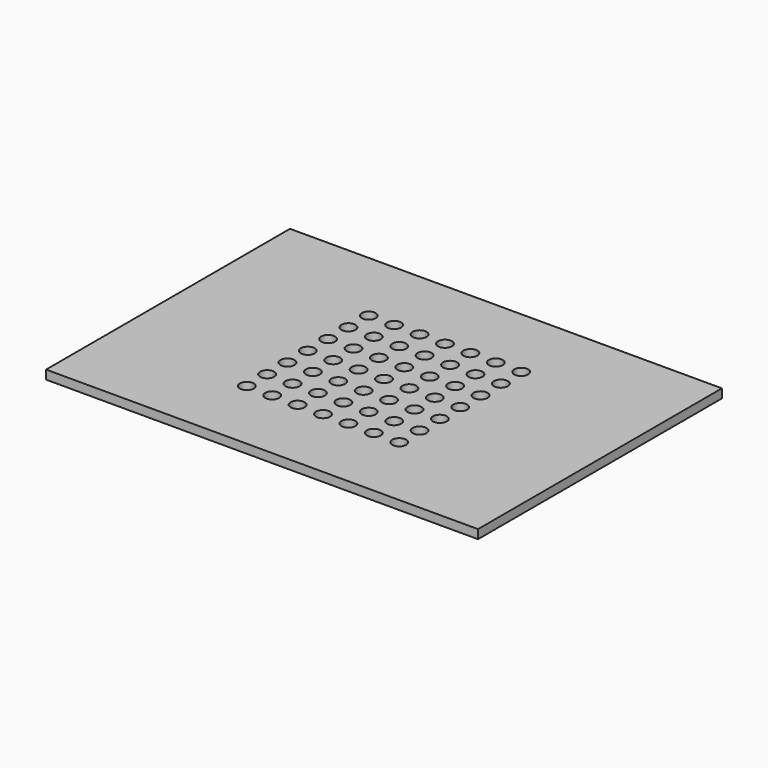
from build123d import *

# Parameters (mm, degrees)
F0_W     = 215.9
F0_H     = 152.4
F0_R     = 3.4925
F1_DEPTH = 4.445


with BuildPart() as f1:
    # F0 (on Top) → F1 (new body)
    with BuildSketch(Plane.XY):
        with Locations((107.95, 76.2)):
            Rectangle(F0_W, F0_H)
        with Locations((69.85, 38.1)):
            Circle(F0_R, mode=Mode.SUBTRACT)
        with Locations((69.85, 50.8)):
            Circle(F0_R, mode=Mode.SUBTRACT)
        with Locations((82.55, 38.1)):
            Circle(F0_R, mode=Mode.SUBTRACT)
        with Locations((95.25, 38.1)):
            Circle(F0_R, mode=Mode.SUBTRACT)
        with Locations((82.55, 50.8)):
            Circle(F0_R, mode=Mode.SUBTRACT)
        with Locations((95.25, 50.8)):
            Circle(F0_R, mode=Mode.SUBTRACT)
        with Locations((69.85, 63.5)):
            Circle(F0_R, mode=Mode.SUBTRACT)
        with Locations((82.55, 63.5)):
            Circle(F0_R, mode=Mode.SUBTRACT)
        with Locations((95.25, 63.5)):
            Circle(F0_R, mode=Mode.SUBTRACT)
        with Locations((107.95, 38.1)):
            Circle(F0_R, mode=Mode.SUBTRACT)
        with Locations((120.65, 38.1)):
            Circle(F0_R, mode=Mode.SUBTRACT)
        with Locations((133.35, 38.1)):
            Circle(F0_R, mode=Mode.SUBTRACT)
        with Locations((107.95, 50.8)):
            Circle(F0_R, mode=Mode.SUBTRACT)
        with Locations((120.65, 50.8)):
            Circle(F0_R, mode=Mode.SUBTRACT)
        with Locations((133.35, 50.8)):
            Circle(F0_R, mode=Mode.SUBTRACT)
        with Locations((146.05, 38.1)):
            Circle(F0_R, mode=Mode.SUBTRACT)
        with Locations((146.05, 50.8)):
            Circle(F0_R, mode=Mode.SUBTRACT)
        with Locations((107.95, 63.5)):
            Circle(F0_R, mode=Mode.SUBTRACT)
        with Locations((120.65, 63.5)):
            Circle(F0_R, mode=Mode.SUBTRACT)
        with Locations((133.35, 63.5)):
            Circle(F0_R, mode=Mode.SUBTRACT)
        with Locations((146.05, 63.5)):
            Circle(F0_R, mode=Mode.SUBTRACT)
        with Locations((69.85, 76.2)):
            Circle(F0_R, mode=Mode.SUBTRACT)
        with Locations((69.85, 88.9)):
            Circle(F0_R, mode=Mode.SUBTRACT)
        with Locations((82.55, 76.2)):
            Circle(F0_R, mode=Mode.SUBTRACT)
        with Locations((95.25, 76.2)):
            Circle(F0_R, mode=Mode.SUBTRACT)
        with Locations((82.55, 88.9)):
            Circle(F0_R, mode=Mode.SUBTRACT)
        with Locations((95.25, 88.9)):
            Circle(F0_R, mode=Mode.SUBTRACT)
        with Locations((69.85, 101.6)):
            Circle(F0_R, mode=Mode.SUBTRACT)
        with Locations((82.55, 101.6)):
            Circle(F0_R, mode=Mode.SUBTRACT)
        with Locations((95.25, 101.6)):
            Circle(F0_R, mode=Mode.SUBTRACT)
        with Locations((69.85, 114.3)):
            Circle(F0_R, mode=Mode.SUBTRACT)
        with Locations((82.55, 114.3)):
            Circle(F0_R, mode=Mode.SUBTRACT)
        with Locations((95.25, 114.3)):
            Circle(F0_R, mode=Mode.SUBTRACT)
        with Locations((107.95, 76.2)):
            Circle(F0_R, mode=Mode.SUBTRACT)
        with Locations((120.65, 76.2)):
            Circle(F0_R, mode=Mode.SUBTRACT)
        with Locations((133.35, 76.2)):
            Circle(F0_R, mode=Mode.SUBTRACT)
        with Locations((107.95, 88.9)):
            Circle(F0_R, mode=Mode.SUBTRACT)
        with Locations((120.65, 88.9)):
            Circle(F0_R, mode=Mode.SUBTRACT)
        with Locations((133.35, 88.9)):
            Circle(F0_R, mode=Mode.SUBTRACT)
        with Locations((146.05, 76.2)):
            Circle(F0_R, mode=Mode.SUBTRACT)
        with Locations((146.05, 88.9)):
            Circle(F0_R, mode=Mode.SUBTRACT)
        with Locations((107.95, 101.6)):
            Circle(F0_R, mode=Mode.SUBTRACT)
        with Locations((120.65, 101.6)):
            Circle(F0_R, mode=Mode.SUBTRACT)
        with Locations((133.35, 101.6)):
            Circle(F0_R, mode=Mode.SUBTRACT)
        with Locations((146.05, 101.6)):
            Circle(F0_R, mode=Mode.SUBTRACT)
        with Locations((107.95, 114.3)):
            Circle(F0_R, mode=Mode.SUBTRACT)
        with Locations((120.65, 114.3)):
            Circle(F0_R, mode=Mode.SUBTRACT)
        with Locations((133.35, 114.3)):
            Circle(F0_R, mode=Mode.SUBTRACT)
        with Locations((146.05, 114.3)):
            Circle(F0_R, mode=Mode.SUBTRACT)
    extrude(amount=F1_DEPTH)


solid = f1.part
